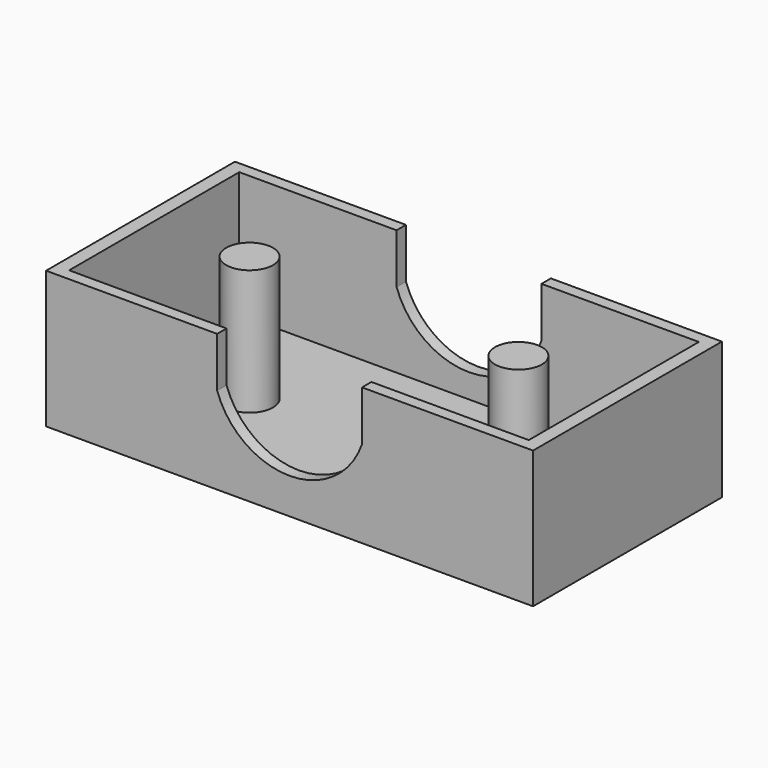
from build123d import *

# Parameters (mm, degrees)
F0_W          = 117.318443954
F0_H          = 54.2597807944
F1_DEPTH      = 3
F2_W          = 124.3039702
F2_H          = 60.2597807944
F2_W_2        = 117.318443954
F2_H_2        = 54.2597807944
F3_DEPTH      = 35
F4_R          = 5.9838878744
F5_DEPTH      = 35
F7_DEPTH      = 30.1308903972
F7_DEPTH_BACK = 30.1308903972


with BuildPart() as f1:
    # F0 (on Top) → F1 (new body)
    with BuildSketch(Plane.XY):
        Rectangle(F0_W, F0_H)
    extrude(amount=F1_DEPTH)

    # F2 (on Top) → F3 (join)
    with BuildSketch(Plane.XY):
        Rectangle(F2_W, F2_H)
        Rectangle(F2_W_2, F2_H_2, mode=Mode.SUBTRACT)
    extrude(amount=F3_DEPTH)

    # F4 (on Top) → F5 (join)
    with BuildSketch(Plane.XY):
        with Locations((-34.3156456947, 0)):
            Circle(F4_R)
        with Locations((34.3156456947, 0)):
            Circle(F4_R)
    extrude(amount=F5_DEPTH)

    # F6 (on Front) → F7 (cut, two sides)
    with BuildSketch(Plane.XZ) as f7_sk:
        with BuildLine():
            Line((18.4925086796, 35), (-18.4925086796, 35))
            Line((-18.4925086796, 35), (-18.4925086796, 22.2374610603))
            ThreePointArc((-18.4925086796, 22.2374610603), (0, 9.1160805646), (18.4925086796, 22.2374610603))
            Line((18.4925086796, 22.2374610603), (18.4925086796, 35))
        make_face()
    extrude(amount=-F7_DEPTH, mode=Mode.SUBTRACT)
    extrude(f7_sk.sketch, amount=F7_DEPTH_BACK, mode=Mode.SUBTRACT)


solid = f1.part
